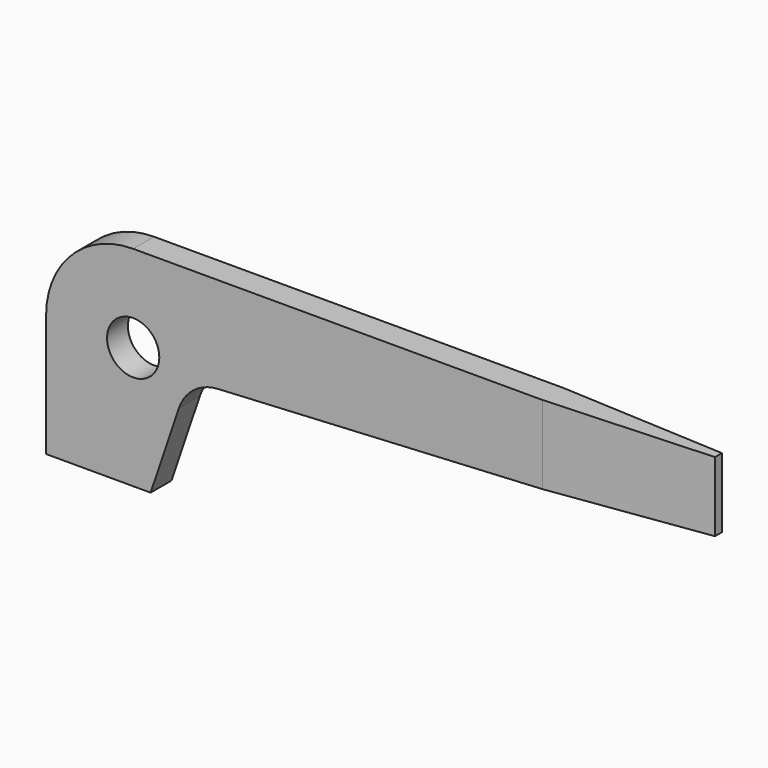
from build123d import *

# Parameters (mm, degrees)
F1_DEPTH = 2.38125
F2_R     = 2.38125
F3_DEPTH = 25.4
F5_DEPTH = 25.4


with BuildPart() as f1:
    # F0 (on Front) → F1 (new body)
    with BuildSketch(Plane.XZ):
        with BuildLine():
            Line((60.325, 19.05), (7.9375, 19.05))
            ThreePointArc((7.9375, 19.05), (2.32484, 16.72516), (0, 11.1125))
            Line((0, 11.1125), (0, 0))
            Line((0, 0), (9.525, 0))
            Line((9.525, 0), (12.110345, 7.626242))
            ThreePointArc((12.110345, 7.626242), (13.473756, 9.517878), (15.663421, 10.319465))
            Line((15.663421, 10.319465), (60.325, 12.7))
            Line((60.325, 12.7), (60.325, 19.05))
        make_face()
    extrude(amount=F1_DEPTH)

    # F2 (on face) → F3 (cut)
    with BuildSketch(Plane.XZ.offset(2.38125)):
        with Locations((7.9375, 11.1125)):
            Circle(F2_R)
    extrude(amount=-F3_DEPTH, mode=Mode.SUBTRACT)

    # F4 (on face) → F5 (cut)
    with BuildSketch(Plane.XY.offset(19.05)):
        Polygon((60.325, 0), (45.24375, 0), (60.325, -0.79375), align=None)
        Polygon((60.325, -2.38125), (60.325, -1.5875), (45.24375, -2.38125), align=None)
    extrude(amount=-F5_DEPTH, mode=Mode.SUBTRACT)


solid = f1.part
